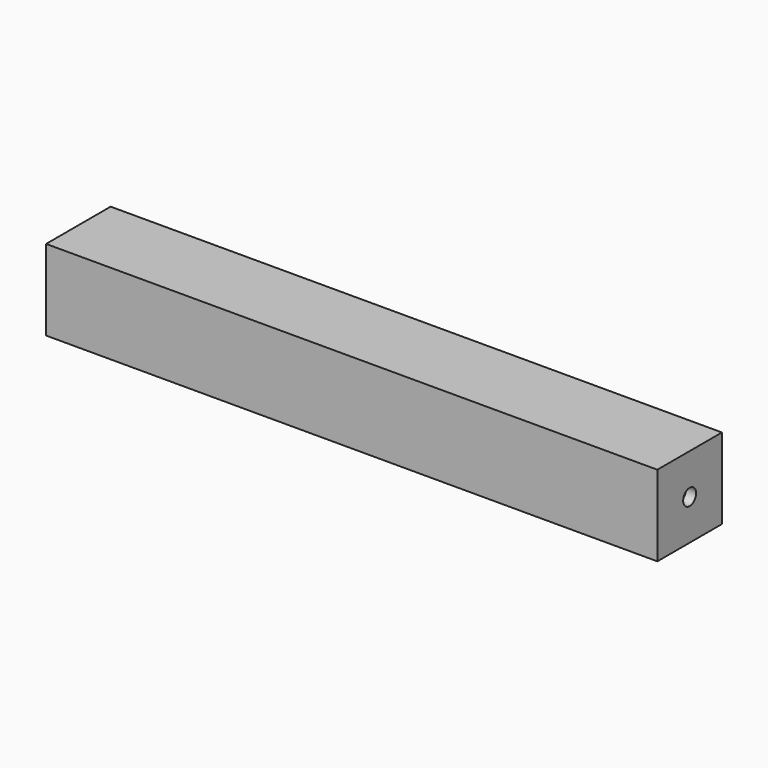
from build123d import *

# Parameters (mm, degrees)
F1_DEPTH = 293
F2_W     = 35
F2_H     = 35
F2_R     = 4
F3_DEPTH = 5
F4_W     = 40
F4_H     = 40
F4_R     = 4
F5_DEPTH = 5


with BuildPart() as f1:
    # F0 (on Right) → F1 (new body)
    with BuildSketch(Plane.YZ):
        Polygon((-7.9736986477, 15.6249996814), (-7.9736986477, -24.3750003186), (-2.9736986477, -24.3750003186), (-2.9736986477, 10.6249996814), (32.0263013523, 10.6249996814), (32.0263013523, 15.6249996814), align=None)
    extrude(amount=F1_DEPTH)

    # F2 (on face) → F3 (join)
    with BuildSketch(Plane.YZ.offset(293)):
        Polygon((-7.9736986477, 15.6249996814), (-7.9736986477, -24.3750003186), (-2.9736986477, -24.3750003186), (-2.9736986477, 10.6249996814), (32.0263013523, 10.6249996814), (32.0263013523, 15.6249996814), align=None)
        with Locations((14.5263013523, -6.8750003186)):
            Rectangle(F2_W, F2_H)
        with Locations((12.0263013523, -4.3750003186)):
            Circle(F2_R, mode=Mode.SUBTRACT)
    extrude(amount=F3_DEPTH)

    # F4 (on face) → F5 (join)
    with BuildSketch(Plane(origin=(0, 0, 0), x_dir=(0, -1, 0), z_dir=(-1, 0, 0))):
        with Locations((-12.0263013523, -4.3750003186)):
            Rectangle(F4_W, F4_H)
        with Locations((-12.0263013523, -4.3750003186)):
            Circle(F4_R, mode=Mode.SUBTRACT)
    extrude(amount=F5_DEPTH)


solid = f1.part
